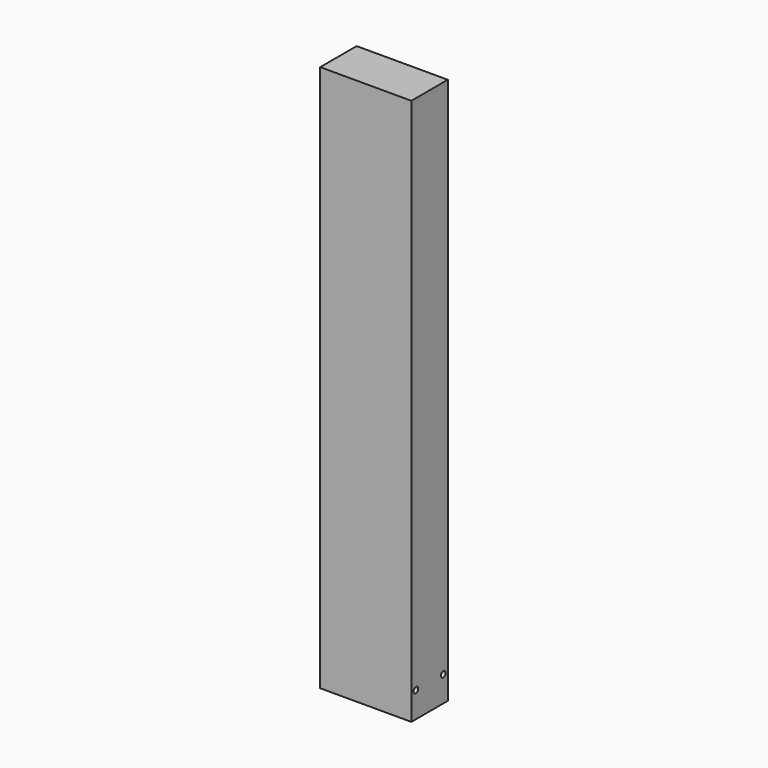
from build123d import *

# Parameters (mm, degrees)
F0_W     = 50.8
F0_H     = 25.4
F1_DEPTH = 304.8
F3_D     = 3.2258


with BuildPart() as f1:
    # F0 (on Top) → F1 (new body)
    with BuildSketch(Plane.XY):
        Rectangle(F0_W, F0_H)
    extrude(amount=F1_DEPTH)

    # F3 (through all)
    with Locations(Plane.YZ.offset(25.4)):
        with Locations((9.525, 14.3129), (-9.525, 14.3129)):
            Hole(F3_D / 2)


solid = f1.part
